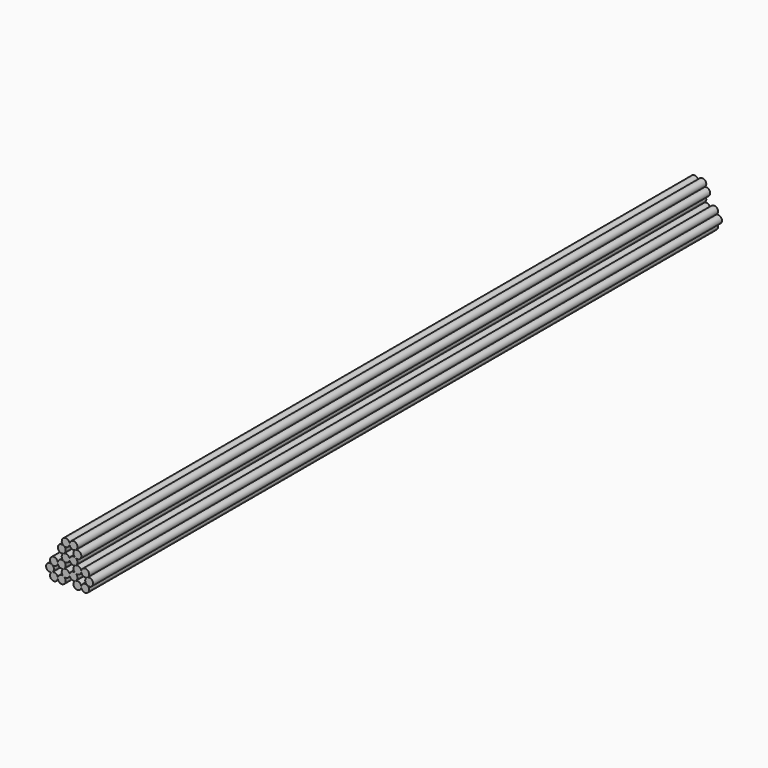
from build123d import *

# Parameters (mm, degrees)
F1_DEPTH = 5080


with BuildPart() as f1:
    # F0 (on Front) → F1 (new body)
    with BuildSketch(Plane.XZ):
        with BuildLine():
            ThreePointArc((39.92769, 110.682263), (37.996602, 153.442045), (0, 133.734525))
            ThreePointArc((0, 133.734525), (-37.996602, 153.442045), (-39.92769, 110.682263))
            ThreePointArc((-39.92769, 110.682263), (-75.993204, 87.63), (-39.92769, 64.577737))
            ThreePointArc((-39.92769, 64.577737), (-50.696602, 43.815), (-39.92769, 23.052263))
            ThreePointArc((-39.92769, 23.052263), (-63.293204, 21.997045), (-75.889806, 2.289525))
            ThreePointArc((-75.889806, 2.289525), (-113.886408, 21.997045), (-115.817496, -20.762737))
            ThreePointArc((-115.817496, -20.762737), (-151.88301, -43.815), (-115.817496, -66.867263))
            ThreePointArc((-115.817496, -66.867263), (-113.886408, -109.627045), (-75.889806, -89.919525))
            ThreePointArc((-75.889806, -89.919525), (-37.893204, -109.627045), (-35.962116, -66.867263))
            ThreePointArc((-35.962116, -66.867263), (-12.596602, -65.812045), (0, -46.104525))
            ThreePointArc((0, -46.104525), (12.596602, -65.812045), (35.962116, -66.867263))
            ThreePointArc((35.962116, -66.867263), (37.893204, -109.627045), (75.889806, -89.919525))
            ThreePointArc((75.889806, -89.919525), (113.886408, -109.627045), (115.817496, -66.867263))
            ThreePointArc((115.817496, -66.867263), (151.88301, -43.815), (115.817496, -20.762737))
            ThreePointArc((115.817496, -20.762737), (113.886408, 21.997045), (75.889806, 2.289525))
            ThreePointArc((75.889806, 2.289525), (63.293204, 21.997045), (39.92769, 23.052263))
            ThreePointArc((39.92769, 23.052263), (50.696602, 43.815), (39.92769, 64.577737))
            ThreePointArc((39.92769, 64.577737), (75.993204, 87.63), (39.92769, 110.682263))
        make_face()
        with BuildLine():
            ThreePointArc((-111.851922, -64.577737), (-101.08301, -43.815), (-111.851922, -23.052263))
            ThreePointArc((-111.851922, -23.052263), (-88.486408, -21.997045), (-75.889806, -2.289525))
            ThreePointArc((-75.889806, -2.289525), (-63.293204, -21.997045), (-39.92769, -23.052263))
            ThreePointArc((-39.92769, -23.052263), (-50.696602, -43.815), (-39.92769, -64.577737))
            ThreePointArc((-39.92769, -64.577737), (-63.293204, -65.632955), (-75.889806, -85.340475))
            ThreePointArc((-75.889806, -85.340475), (-88.486408, -65.632955), (-111.851922, -64.577737))
        make_face(mode=Mode.SUBTRACT)
        with BuildLine():
            ThreePointArc((75.889806, -85.340475), (63.293204, -65.632955), (39.92769, -64.577737))
            ThreePointArc((39.92769, -64.577737), (50.696602, -43.815), (39.92769, -23.052263))
            ThreePointArc((39.92769, -23.052263), (63.293204, -21.997045), (75.889806, -2.289525))
            ThreePointArc((75.889806, -2.289525), (88.486408, -21.997045), (111.851922, -23.052263))
            ThreePointArc((111.851922, -23.052263), (101.08301, -43.815), (111.851922, -64.577737))
            ThreePointArc((111.851922, -64.577737), (88.486408, -65.632955), (75.889806, -85.340475))
        make_face(mode=Mode.SUBTRACT)
        with BuildLine():
            ThreePointArc((-35.962116, 20.762737), (-12.596602, 21.817955), (0, 41.525475))
            ThreePointArc((0, 41.525475), (12.596602, 21.817955), (35.962116, 20.762737))
            ThreePointArc((35.962116, 20.762737), (25.193204, 0), (35.962116, -20.762737))
            ThreePointArc((35.962116, -20.762737), (12.596602, -21.817955), (0, -41.525475))
            ThreePointArc((0, -41.525475), (-12.596602, -21.817955), (-35.962116, -20.762737))
            ThreePointArc((-35.962116, -20.762737), (-25.193204, 0), (-35.962116, 20.762737))
        make_face(mode=Mode.SUBTRACT)
        with BuildLine():
            ThreePointArc((-35.962116, 108.392737), (-12.596602, 109.447955), (0, 129.155475))
            ThreePointArc((0, 129.155475), (12.596602, 109.447955), (35.962116, 108.392737))
            ThreePointArc((35.962116, 108.392737), (25.193204, 87.63), (35.962116, 66.867263))
            ThreePointArc((35.962116, 66.867263), (12.596602, 65.812045), (0, 46.104525))
            ThreePointArc((0, 46.104525), (-12.596602, 65.812045), (-35.962116, 66.867263))
            ThreePointArc((-35.962116, 66.867263), (-25.193204, 87.63), (-35.962116, 108.392737))
        make_face(mode=Mode.SUBTRACT)
    extrude(amount=F1_DEPTH)


solid = f1.part
